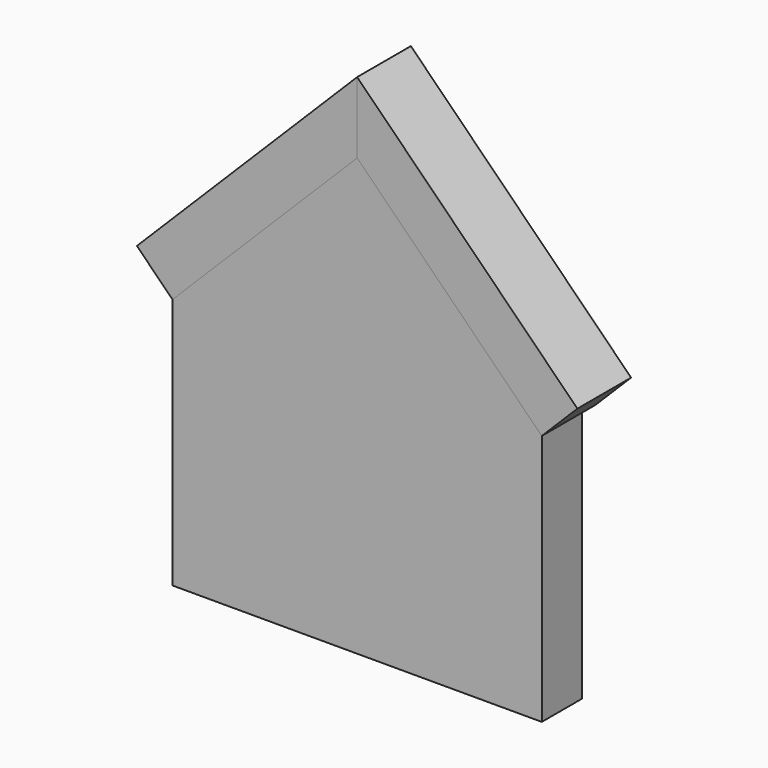
from build123d import *

# Parameters (mm, degrees)
F1_DEPTH = 9.525
F3_DEPTH = 25.4
F6_DEPTH = 12.7


with BuildPart() as f1:
    # F0 (on Front) → F1 (new body, symmetric)
    with BuildSketch(Plane.XZ):
        Polygon((-69.85, 95.25), (-69.85, 0), (69.85, 0), (69.85, 95.25), (0, 165.1), align=None)
    extrude(amount=F1_DEPTH, both=True)

    # F5 (on face) → F6 (cut)
    with BuildSketch(Plane(origin=(0, 0, 0), x_dir=(1, 0, 0), z_dir=(0, 0, -1))):
        with BuildLine():
            ThreePointArc((55.5625, 0), (57.15, -1.5875), (58.7375, 0))
            Line((58.7375, 0), (57.15, 0))
            Line((57.15, 0), (55.5625, 0))
        make_face()
        with BuildLine():
            Line((57.15, 0), (58.7375, 0))
            ThreePointArc((58.7375, 0), (57.15, 1.5875), (55.5625, 0))
            Line((55.5625, 0), (57.15, 0))
        make_face()
        with BuildLine():
            ThreePointArc((-58.7375, 0), (-57.15, -1.5875), (-55.5625, 0))
            Line((-55.5625, 0), (-57.15, 0))
            Line((-57.15, 0), (-58.7375, 0))
        make_face()
        with BuildLine():
            Line((-57.15, 0), (-55.5625, 0))
            ThreePointArc((-55.5625, 0), (-57.15, 1.5875), (-58.7375, 0))
            Line((-58.7375, 0), (-57.15, 0))
        make_face()
        with BuildLine():
            ThreePointArc((-20.6375, 0), (-19.05, -1.5875), (-17.4625, 0))
            Line((-17.4625, 0), (-19.05, 0))
            Line((-19.05, 0), (-20.6375, 0))
        make_face()
        with BuildLine():
            Line((-19.05, 0), (-17.4625, 0))
            ThreePointArc((-17.4625, 0), (-19.05, 1.5875), (-20.6375, 0))
            Line((-20.6375, 0), (-19.05, 0))
        make_face()
        with BuildLine():
            ThreePointArc((17.4625, 0), (19.05, -1.5875), (20.6375, 0))
            Line((20.6375, 0), (19.05, 0))
            Line((19.05, 0), (17.4625, 0))
        make_face()
        with BuildLine():
            Line((19.05, 0), (20.6375, 0))
            ThreePointArc((20.6375, 0), (19.05, 1.5875), (17.4625, 0))
            Line((17.4625, 0), (19.05, 0))
        make_face()
    extrude(amount=-F6_DEPTH, mode=Mode.SUBTRACT)


with BuildPart() as f3:
    # F2 (on face) → F3 (new body)
    with BuildSketch(Plane.XZ.offset(9.525)):
        Polygon((-83.320384, 108.720384), (-69.85, 95.25), (0, 165.1), (0, 192.040768), align=None)
    extrude(amount=-F3_DEPTH)


with BuildPart() as f4_1:
    # F4: instance of F3
    add(f3.part.mirror(Plane.YZ))


solid = Compound([f1.part, f3.part, f4_1.part])
